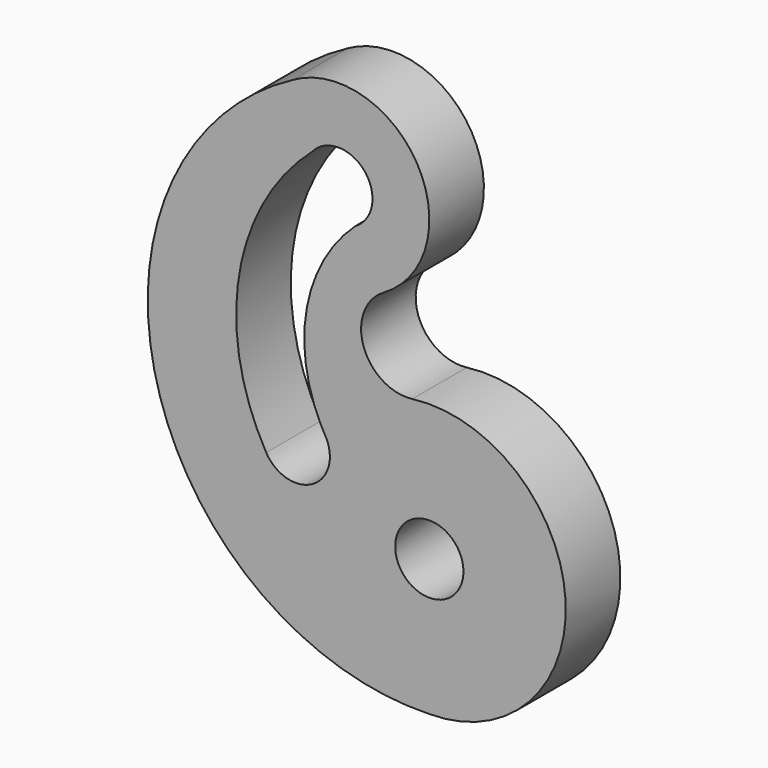
from build123d import *

# Parameters (mm, degrees)
F0_R     = 190.5
F1_DEPTH = 381


with BuildPart() as f1:
    # F0 (on Front) → F1 (new body)
    with BuildSketch(Plane.XZ):
        with BuildLine():
            ThreePointArc((-762, 2107.883512), (-1521.453568, 370.133083), (0, -762))
            ThreePointArc((0, -762), (760.504392, 47.718659), (-95.25, 756.023437))
            ThreePointArc((-95.25, 756.023437), (-367.746778, 927.056014), (-254, 1228.001702))
            ThreePointArc((-254, 1228.001702), (-68.059095, 1921.942607), (-762, 2107.883512))
        make_face()
        Circle(F0_R, mode=Mode.SUBTRACT)
        with BuildLine():
            ThreePointArc((-603.25, 1832.920447), (-343.022161, 1763.192607), (-412.75, 1502.964768))
            ThreePointArc((-412.75, 1502.964768), (-683.887287, 1015.266582), (-605.343239, 462.821308))
            ThreePointArc((-605.343239, 462.821308), (-593.494545, 440.07278), (-580.984582, 417.681087))
            ThreePointArc((-580.984582, 417.681087), (-650.712421, 157.453248), (-910.940261, 227.181087))
            ThreePointArc((-910.940261, 227.181087), (-1061.908275, 1055.562788), (-652.919406, 1791.589749))
            ThreePointArc((-652.919406, 1791.589749), (-629.849877, 1814.376406), (-603.25, 1832.920447))
        make_face(mode=Mode.SUBTRACT)
    extrude(amount=F1_DEPTH)


solid = f1.part
